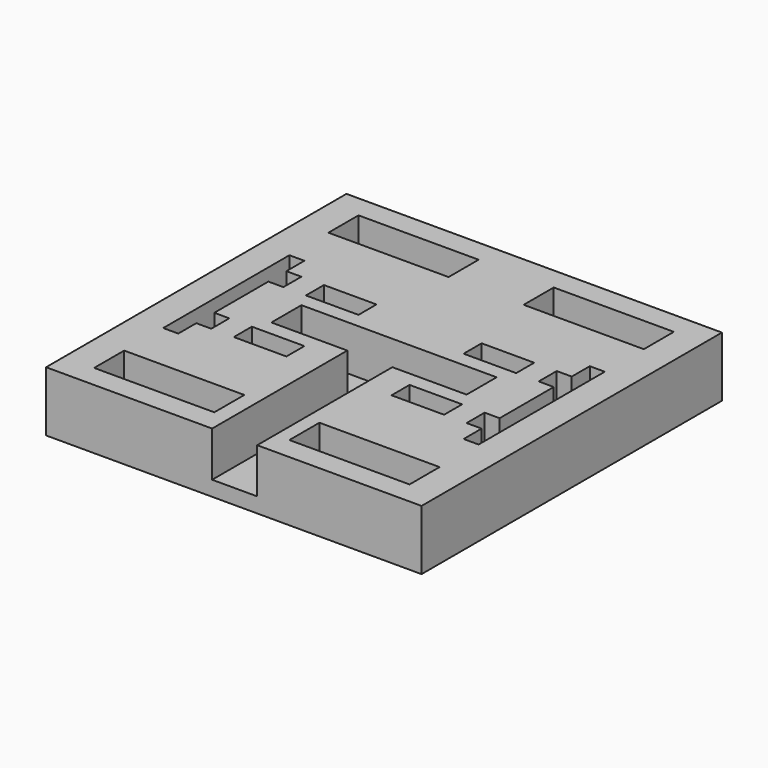
from build123d import *

# Parameters (mm, degrees)
F0_W     = 500
F0_H     = 500
F1_DEPTH = 80
F2_W     = 20
F2_H     = 30
F2_W_2   = 60
F2_H_2   = 50
F2_W_3   = 140
F3_DEPTH = 60
F4_W     = 160
F4_H     = 50
F5_DEPTH = 190
F6_W     = 60
F6_H     = 225
F7_DEPTH = 60


with BuildPart() as f1:
    # F0 (on Top) → F1 (new body)
    with BuildSketch(Plane.XY):
        Rectangle(F0_W, F0_H)
    extrude(amount=F1_DEPTH)

    # F2 (on face) → F3 (cut)
    with BuildSketch(Plane.XY.offset(80)):
        Polygon((-190, 105), (-210, 105), (-210, -105), (-190, -105), (-190, -75), (-190, -45), (-190, 45), (-190, 75), align=None)
        with Locations((-180, 60)):
            Rectangle(F2_W, F2_H)
        with Locations((-180, -60)):
            Rectangle(F2_W, F2_H)
        Polygon((-70, 75), (-140, 75), (-140, 45), (-130, 45), (-70, 45), align=None)
        Polygon((-140, -45), (-140, -75), (-70, -75), (-70, -45), (-130, -45), align=None)
        Polygon((140, 45), (140, 75), (70, 75), (70, 45), (130, 45), align=None)
        Polygon((70, -75), (140, -75), (140, -45), (130, -45), (70, -45), align=None)
        with Locations((180, 60)):
            Rectangle(F2_W, F2_H)
        Polygon((210, 105), (190, 105), (190, 75), (190, 45), (190, -45), (190, -75), (190, -105), (210, -105), align=None)
        with Locations((180, -60)):
            Rectangle(F2_W, F2_H)
        with Locations((-100, 0)):
            Rectangle(F2_W_2, F2_H_2)
        Rectangle(F2_W_3, F2_H_2)
        with Locations((100, 0)):
            Rectangle(F2_W_2, F2_H_2)
    extrude(amount=-F3_DEPTH, mode=Mode.SUBTRACT)

    # F4 (on face) → F5 (cut)
    with BuildSketch(Plane.XY.offset(80)):
        with Locations((-130, 195)):
            Rectangle(F4_W, F4_H)
        with Locations((130, 195)):
            Rectangle(F4_W, F4_H)
        with Locations((130, -195)):
            Rectangle(F4_W, F4_H)
        with Locations((-130, -195)):
            Rectangle(F4_W, F4_H)
    extrude(amount=-F5_DEPTH, mode=Mode.SUBTRACT)

    # F6 (on face) → F7 (cut)
    with BuildSketch(Plane.XY.offset(80)):
        with Locations((1.1277186871, -137.5)):
            Rectangle(F6_W, F6_H)
    extrude(amount=-F7_DEPTH, mode=Mode.SUBTRACT)


solid = f1.part
